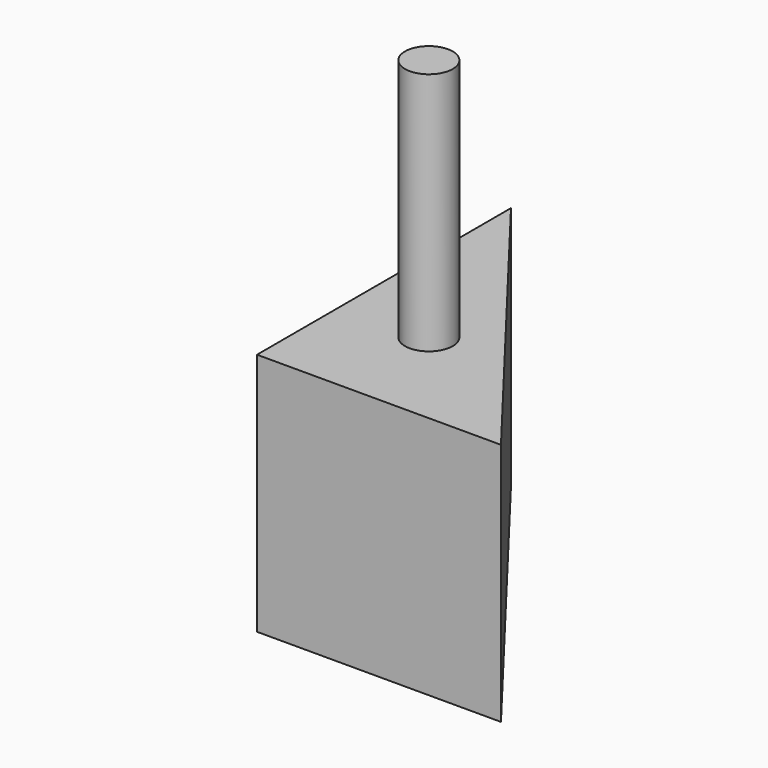
from build123d import *

# Parameters (mm, degrees)
F1_DEPTH = 25.4
F2_R     = 2.486175
F3_DEPTH = 25.4


with BuildPart() as f1:
    # F0 (on Top) → F1 (new body)
    with BuildSketch(Plane.XY):
        Polygon((-25.4, 0), (0, 0), (-25.4, 33.05722), align=None)
    extrude(amount=F1_DEPTH)

    # F2 (on face) → F3 (join)
    with BuildSketch(Plane.XY.offset(25.4)):
        with Locations((-16.399799, 11.118355)):
            Circle(F2_R)
    extrude(amount=F3_DEPTH)


solid = f1.part
